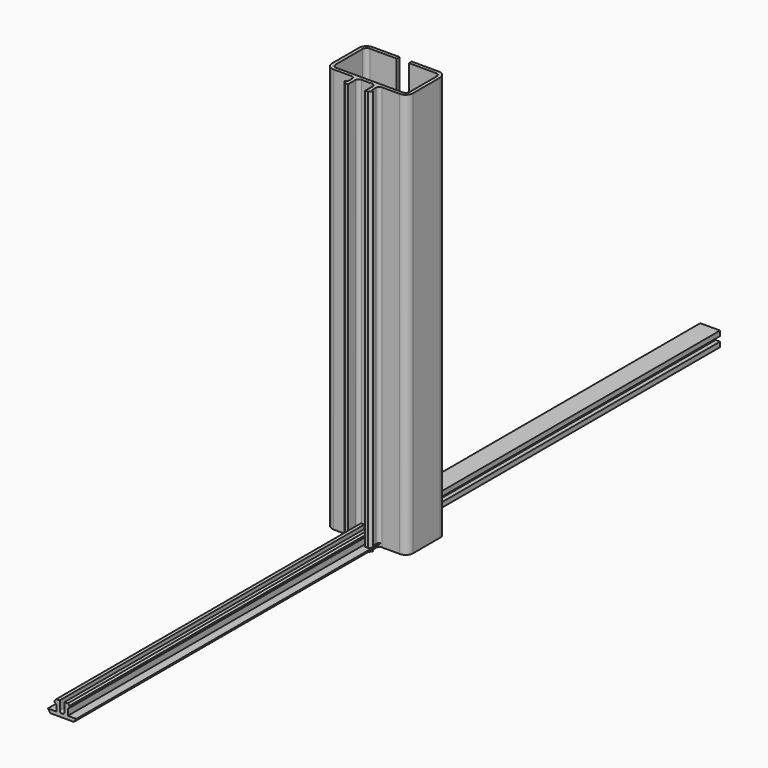
from build123d import *

# Parameters (mm, degrees)
PAD002_DEPTH = 100
PAD003_DEPTH = 100
PAD_DEPTH    = 100
FILLET_R     = 0.8


with BuildPart() as capbody:
    # Sketch002 → Pad002 (new body)
    with BuildSketch(Plane(origin=(0, 0, 0), x_dir=(-1, 0, 0), z_dir=(0, 1, 0))):
        Polygon((-2.45, 0), (2.45, 0), (2.45, 1.21), (1.35, 1.21), (1.35, 2.41), (2.45, 2.41), (2.45, 3.62), (-2.45, 3.62), (-2.45, 2.41), (-1.35, 2.41), (-1.35, 1.21), (-2.45, 1.21), align=None)
    extrude(amount=PAD002_DEPTH)


with BuildPart() as cap2body:
    # Sketch003 → Pad003 (new body)
    with BuildSketch(Plane.XZ):
        with BuildLine():
            Line((-0.575, 3.55), (-0.575, 1.35))
            ThreePointArc((-0.575, 1.35), (-0.428553, 0.996447), (-0.075, 0.85))
            Line((-0.075, 0.85), (0.075, 0.85))
            ThreePointArc((0.075, 0.85), (0.428553, 0.996447), (0.575, 1.35))
            Line((0.575, 1.35), (0.575, 3.55))
            Line((0.575, 3.55), (1.425, 3.55))
            Line((1.425, 3.55), (1.825, 3.15))
            Line((1.825, 3.15), (1.825, 2.75))
            Line((1.825, 2.75), (1.425, 2.35))
            Line((1.425, 2.35), (1.425, 0.85))
            Line((1.425, 0.85), (3.5, 0.85))
            Line((3.5, 0.85), (2.904824, 0))
            Line((2.904824, 0), (-2.904824, 0))
            Line((-2.904824, 0), (-3.5, 0.85))
            Line((-3.5, 0.85), (-1.425, 0.85))
            Line((-1.425, 0.85), (-1.425, 2.35))
            Line((-1.425, 2.35), (-1.825, 2.75))
            Line((-1.825, 2.75), (-1.825, 3.15))
            Line((-1.825, 3.15), (-1.425, 3.55))
            Line((-1.425, 3.55), (-0.575, 3.55))
        make_face()
    extrude(amount=PAD003_DEPTH)


with BuildPart() as guidebody:
    # Sketch004 → Pad (new body)
    with BuildSketch(Plane.XY):
        with BuildLine():
            Line((-10, 4.15), (-10, -4.15))
            ThreePointArc((-10, -4.15), (-9.458148, -5.458147), (-8.15, -6))
            Line((-8.15, -6), (-2.975, -6))
            Line((-2.975, -6), (-2.975, -8))
            Line((-3.525, -8.425), (-2.975, -8))
            Line((-2.845, -9.105), (-3.525, -8.425))
            Line((-2.845, -9.105), (-2.125, -9.105))
            Line((-2.125, -9.105), (-2.125, -6.8))
            ThreePointArc((-1.325, -6), (-1.890685, -6.234315), (-2.125, -6.8))
            Line((-1.325, -6), (1.325, -6))
            ThreePointArc((2.125, -6.8), (1.890685, -6.234315), (1.325, -6))
            Line((2.125, -6.8), (2.125, -9.105))
            Line((2.125, -9.105), (2.845, -9.105))
            Line((2.845, -9.105), (3.525, -8.425))
            Line((3.525, -8.425), (2.975, -8))
            Line((2.975, -8), (2.975, -6))
            Line((2.975, -6), (8.15, -6))
            ThreePointArc((8.15, -6), (9.458148, -5.458148), (10, -4.15))
            Line((10, -4.15), (10, 4.15))
            ThreePointArc((10, 4.15), (9.458147, 5.458148), (8.15, 6))
            Line((8.15, 6), (1.5, 6))
            Line((1.5, 6), (1.5, 5.15))
            Line((1.5, 5.15), (8.15, 5.15))
            ThreePointArc((9.15, 4.15), (8.857107, 4.857107), (8.15, 5.15))
            Line((9.15, 4.15), (9.15, -4.15))
            ThreePointArc((8.15, -5.15), (8.857107, -4.857107), (9.15, -4.15))
            Line((8.15, -5.15), (-8.15, -5.15))
            ThreePointArc((-9.15, -4.15), (-8.857107, -4.857107), (-8.15, -5.15))
            Line((-9.15, -4.15), (-9.15, 4.15))
            ThreePointArc((-8.15, 5.15), (-8.857107, 4.857107), (-9.15, 4.15))
            Line((-8.15, 5.15), (-1.5, 5.15))
            Line((-1.5, 5.15), (-1.5, 6))
            Line((-1.5, 6), (-8.15, 6))
            ThreePointArc((-8.15, 6), (-9.458148, 5.458148), (-10, 4.15))
        make_face()
    extrude(amount=PAD_DEPTH)

    # Fillet
    fillet_edges = [guidebody.edges().sort_by_distance(p)[0] for p in [
        (-2.975, -6, 50),
        (2.975, -6, 50),
    ]]
    fillet(fillet_edges, radius=FILLET_R)


solid = Compound([capbody.part, cap2body.part, guidebody.part])
